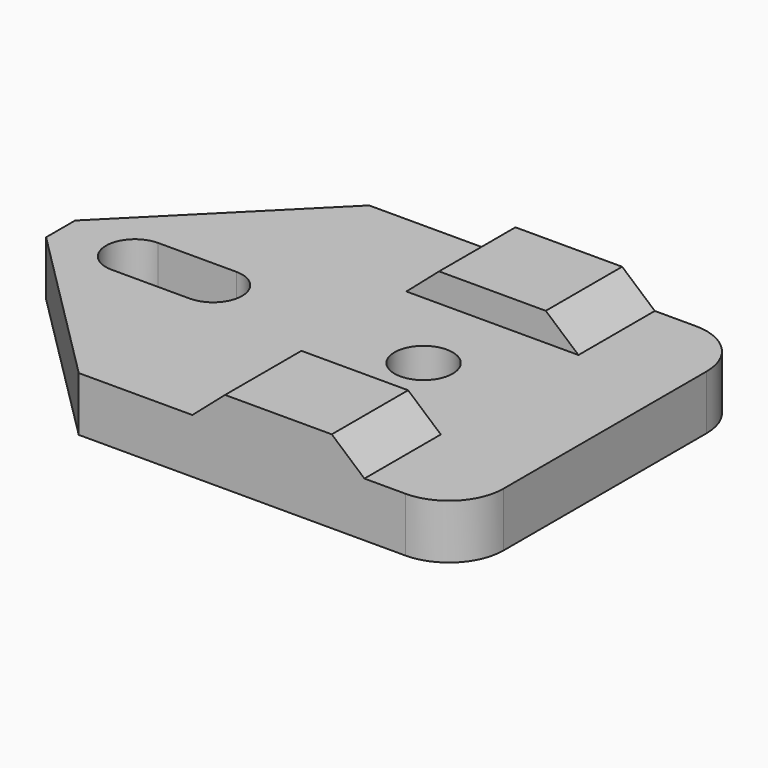
from build123d import *

# Parameters (mm, degrees)
SKETCH_R     = 1.6
PAD_DEPTH    = 3
PAD001_DEPTH = 20
SKETCH002_W  = 9.48
SKETCH002_H  = 9.48
POCKET_DEPTH = 1.56
CHAMFER_SIZE = 9
FILLET_R     = 3


with BuildPart() as part:
    # Sketch → Pad (new body)
    with BuildSketch(Plane.XY):
        Polygon((-10, 10), (10, 10), (10, -10), (-10, -10), (-20, -10), (-20, 10), align=None)
        Circle(SKETCH_R, mode=Mode.SUBTRACT)
        with BuildLine():
            ThreePointArc((-15.9, 1.6), (-17.5, 0), (-15.9, -1.6))
            Line((-15.9, -1.6), (-11.6, -1.6))
            ThreePointArc((-11.6, -1.6), (-10, 0), (-11.6, 1.6))
            Line((-11.6, 1.6), (-15.9, 1.6))
        make_face(mode=Mode.SUBTRACT)
    extrude(amount=PAD_DEPTH)

    # Sketch001 (on Face3 of Pad) → Pad001 (join)
    with BuildSketch(Plane.XZ.offset(10)):
        Polygon((-4.74, 3), (4.74, 3), (2.94, 4.56), (-2.94, 4.56), align=None)
    extrude(amount=-PAD001_DEPTH)

    # Sketch002 (on Face18 of Pad001) → Pocket (cut)
    with BuildSketch(Plane.XY.offset(4.56)):
        Rectangle(SKETCH002_W, SKETCH002_H)
    extrude(amount=-POCKET_DEPTH, mode=Mode.SUBTRACT)

    # Chamfer
    chamfer_edges = [part.edges().sort_by_distance(p)[0] for p in [
        (-20, 10, 1.5),
        (-20, -10, 1.5),
    ]]
    chamfer(chamfer_edges, length=CHAMFER_SIZE)

    # Fillet
    fillet_edges = [part.edges().sort_by_distance(p)[0] for p in [
        (10, -10, 1.5),
        (10, 10, 1.5),
    ]]
    fillet(fillet_edges, radius=FILLET_R)


solid = part.part
